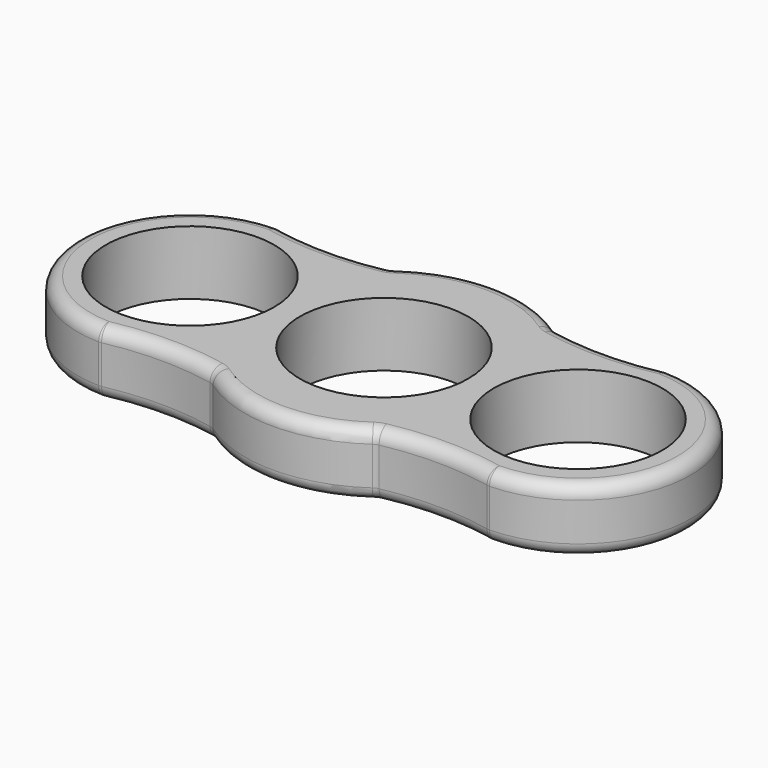
from build123d import *

# Parameters (mm, degrees)
F0_R     = 6.575
F1_DEPTH = 5
F2_R     = 1


with BuildPart() as f1:
    # F0 (on Top) → F1 (new body)
    with BuildSketch(Plane.XY):
        with BuildLine():
            ThreePointArc((-6.389604, 8.776923), (-10.769802, 8.318304), (-15.15, 8.776923))
            ThreePointArc((-15.15, 8.776923), (-23.926923, 0), (-15.15, -8.776923))
            ThreePointArc((-15.15, -8.776923), (-10.769802, -8.318304), (-6.389604, -8.776923))
            ThreePointArc((-6.389604, -8.776923), (0, -10.856399), (6.389604, -8.776923))
            ThreePointArc((6.389604, -8.776923), (10.769802, -8.318304), (15.15, -8.776923))
            ThreePointArc((15.15, -8.776923), (23.926923, 0), (15.15, 8.776923))
            ThreePointArc((15.15, 8.776923), (10.769802, 8.318304), (6.389604, 8.776923))
            ThreePointArc((6.389604, 8.776923), (0, 10.856399), (-6.389604, 8.776923))
        make_face()
        with Locations((-15.15, 0)):
            Circle(F0_R, mode=Mode.SUBTRACT)
        Circle(F0_R, mode=Mode.SUBTRACT)
        with BuildLine():
            ThreePointArc((21.725, 0), (15.15, -6.575), (8.575, 0))
            ThreePointArc((8.575, 0), (15.15, 6.575), (21.725, 0))
        make_face(mode=Mode.SUBTRACT)
    extrude(amount=F1_DEPTH)

    # F2
    f2_edges = [f1.edges().sort_by_distance(p)[0] for p in [
        (-15.15, 8.776923, 2.5),
        (-15.15, -8.776923, 2.5),
        (-23.926923, 0, 0),
        (-23.926923, 0, 5),
        (-6.389604, -8.776923, 2.5),
        (-10.769802, -8.318304, 0),
        (-10.769802, -8.318304, 5),
        (6.389604, -8.776923, 2.5),
        (0, -10.856399, 0),
        (0, -10.856399, 5),
        (15.15, -8.776923, 2.5),
        (10.769802, -8.318304, 0),
        (10.769802, -8.318304, 5),
        (15.15, 8.776923, 2.5),
        (23.926923, 0, 0),
        (23.926923, 0, 5),
        (6.389604, 8.776923, 2.5),
        (10.769802, 8.318304, 0),
        (10.769802, 8.318304, 5),
        (-6.389604, 8.776923, 2.5),
        (0, 10.856399, 0),
        (0, 10.856399, 5),
        (-10.769802, 8.318304, 0),
        (-10.769802, 8.318304, 5),
    ]]
    fillet(f2_edges, radius=F2_R)


solid = f1.part
